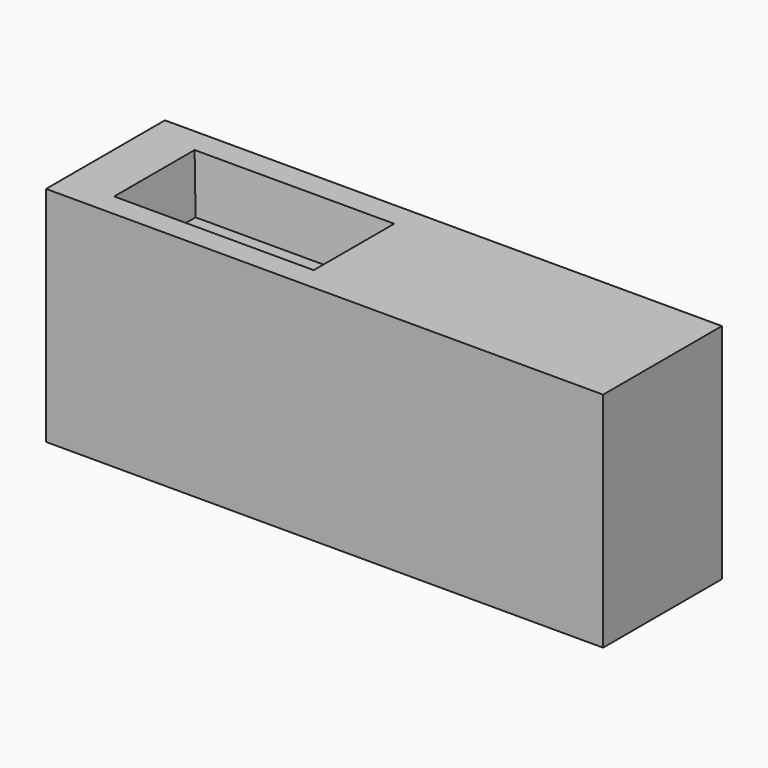
from build123d import *

# Parameters (mm, degrees)
F0_W     = 2286
F0_H     = 609.6
F1_DEPTH = 914.4
F2_W     = 819.15
F2_H     = 412.75
F3_DEPTH = 228.6
F3_TAPER = 5


with BuildPart() as f1:
    # F0 (on Top) → F1 (new body)
    with BuildSketch(Plane.XY):
        with Locations((-1143, -304.8)):
            Rectangle(F0_W, F0_H)
    extrude(amount=F1_DEPTH)

    # F2 (on face) → F3 (cut)
    with BuildSketch(Plane.XY.offset(914.4)):
        with Locations((-1673.225, -307.975)):
            Rectangle(F2_W, F2_H)
    extrude(amount=-F3_DEPTH, taper=F3_TAPER, mode=Mode.SUBTRACT)


solid = f1.part
